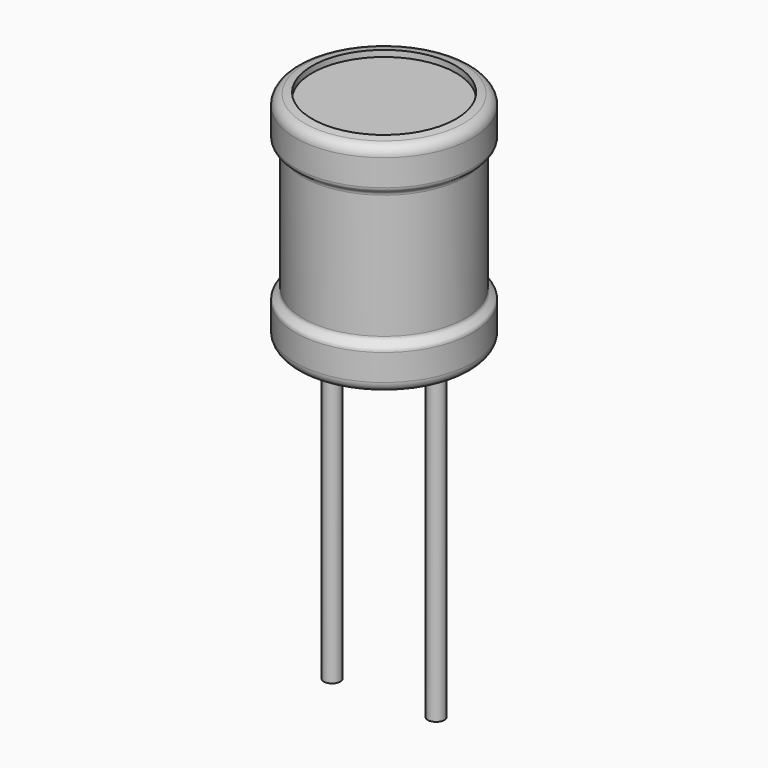
from build123d import *

# Parameters (mm, degrees)
F1_R          = 0.4
F2_DEPTH      = 1
F2_DEPTH_BACK = 15


with BuildPart() as f2:
    # F1 (on Top) → F2 (new body, two sides)
    with BuildSketch(Plane.XY) as f2_sk:
        with Locations((-2.5, 0)):
            Circle(F1_R)
    extrude(amount=F2_DEPTH)
    extrude(f2_sk.sketch, amount=-F2_DEPTH_BACK)


with BuildPart() as f2b:
    # F1 (on Top) → F2, piece 2 (new body, two sides)
    with BuildSketch(Plane.XY) as f2_2_sk:
        with BuildLine():
            ThreePointArc((2.1, 0), (2.5, -0.4), (2.9, 0))
            ThreePointArc((2.9, 0), (2.5, 0.4), (2.1, 0))
        make_face()
    extrude(amount=F2_DEPTH)
    extrude(f2_2_sk.sketch, amount=-F2_DEPTH_BACK)


with BuildPart() as f3:
    # F0 (on Front) → F3 (revolve)
    with BuildSketch(Plane.XZ):
        with BuildLine():
            Line((3.4578109179, 10.3214318706), (0, 10.3214318706))
            Line((0, 10.3214318706), (0, 5.3107159353))
            Line((0, 5.3107159353), (3.9, 5.3107159353))
            Line((3.9, 5.3107159353), (3.9, 8.2966128872))
            add(Edge.make_bspline(
                [(3.9, 8.2966128872), (3.9001910482, 8.54726322), (4.2516529998, 8.5184304044), (4.25, 8.7966128872)],
                knots=[0, 0, 0, 0, 0.6103277808, 0.6103277808, 0.6103277808, 0.6103277808], degree=3))
            Line((4.25, 8.7966128872), (4.25, 10.0672248083))
            ThreePointArc((4.25, 10.0672248083), (4.1309247296, 10.391101869), (3.8304145984, 10.5607159353))
            Line((3.8304145984, 10.5607159353), (3.4578109179, 10.6214318706))
            Line((3.4578109179, 10.6214318706), (3.4578109179, 10.3214318706))
        make_face()
        with BuildLine():
            Line((3.9, 5.3107159353), (0, 5.3107159353))
            Line((0, 5.3107159353), (0, 0.3))
            Line((0, 0.3), (3.4578109179, 0.3))
            Line((3.4578109179, 0.3), (3.4578109179, 0))
            Line((3.4578109179, 0), (3.8304145984, 0.0607159353))
            ThreePointArc((3.8304145984, 0.0607159353), (4.1309247296, 0.2303300016), (4.25, 0.5542070622))
            Line((4.25, 0.5542070622), (4.25, 1.8248189834))
            add(Edge.make_bspline(
                [(3.9, 2.3248189834), (3.9001910482, 2.0741686506), (4.2516529998, 2.1030014662), (4.25, 1.8248189834)],
                knots=[0, 0, 0, 0, 0.6103277808, 0.6103277808, 0.6103277808, 0.6103277808], degree=3))
            Line((3.9, 2.3248189834), (3.9, 5.3107159353))
        make_face()
    revolve(axis=Axis((0, 0, 7.8160739029), (0, 0, -1)))


solid = Compound([f2.part, f2b.part, f3.part])
